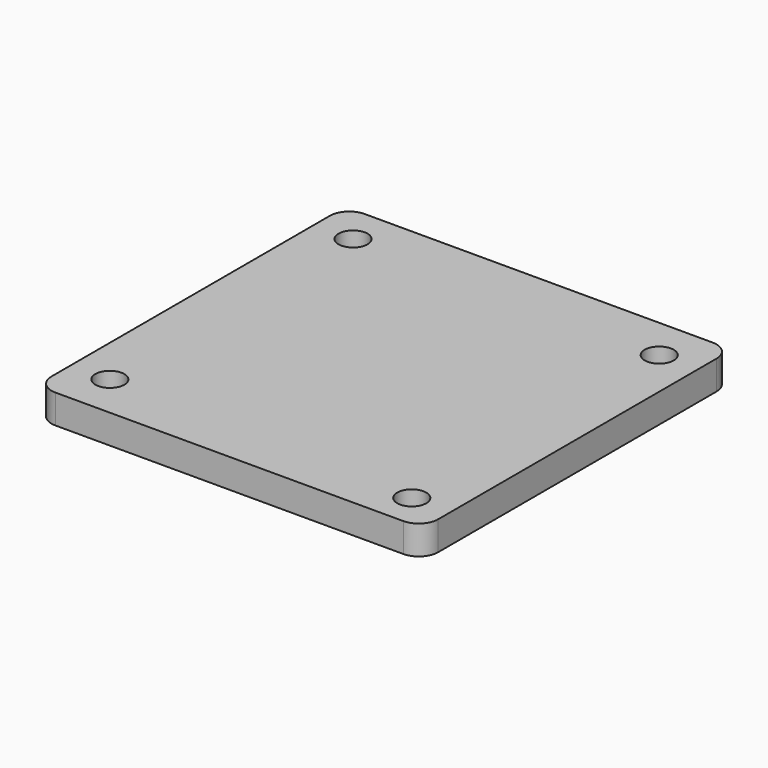
from build123d import *

# Parameters (mm, degrees)
F0_W     = 127
F0_H     = 127
F0_R     = 4.7625
F1_DEPTH = 9.525
F2_R     = 6.35


with BuildPart() as f1:
    # F0 (on Top) → F1 (new body)
    with BuildSketch(Plane.XY):
        with Locations((-8.511175, -2.529345)):
            Rectangle(F0_W, F0_H)
        with Locations((-59.311175, -51.588815)):
            Circle(F0_R, mode=Mode.SUBTRACT)
        with Locations((42.288825, -54.632434)):
            Circle(F0_R, mode=Mode.SUBTRACT)
        with Locations((-59.311175, 48.270655)):
            Circle(F0_R, mode=Mode.SUBTRACT)
        with Locations((42.288825, 46.967566)):
            Circle(F0_R, mode=Mode.SUBTRACT)
    extrude(amount=F1_DEPTH)

    # F2
    f2_edges = [f1.edges().sort_by_distance(p)[0] for p in [
        (-72.011175, -66.029345, 4.7625),
        (54.988825, -66.029345, 4.7625),
        (-72.011175, 60.970655, 4.7625),
        (54.988825, 60.970655, 4.7625),
    ]]
    fillet(f2_edges, radius=F2_R)


solid = f1.part
